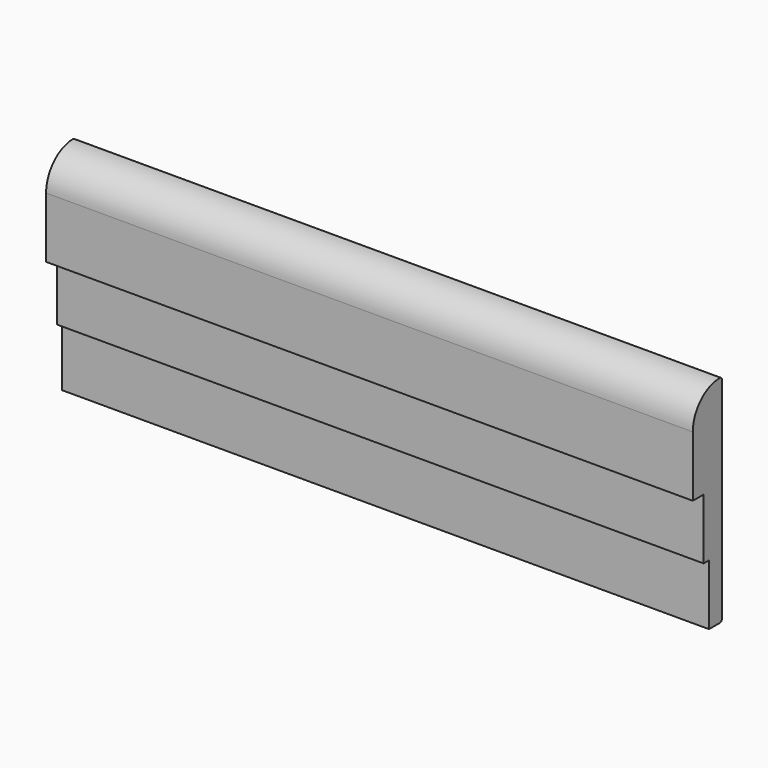
from build123d import *

# Parameters (mm, degrees)
F1_DEPTH = 609.6


with BuildPart() as f1:
    # F0 (on Right) → F1 (new body)
    with BuildSketch(Plane.YZ):
        with BuildLine():
            Line((-15.24, 0), (-2.54, 0))
            ThreePointArc((-2.54, 0), (-0.743949, 0.743949), (0, 2.54))
            Line((0, 2.54), (0, 200.753923))
            ThreePointArc((0, 200.753923), (-0.746834, 202.552855), (-2.548154, 203.29391))
            ThreePointArc((-2.548154, 203.29391), (-24.999201, 193.930989), (-34.29, 171.45))
            Line((-34.29, 171.45), (-34.29, 114.3))
            Line((-34.29, 114.3), (-21.59, 114.3))
            Line((-21.59, 114.3), (-21.59, 57.15))
            Line((-21.59, 57.15), (-15.24, 57.15))
            Line((-15.24, 57.15), (-15.24, 0))
        make_face()
    extrude(amount=F1_DEPTH)


solid = f1.part
